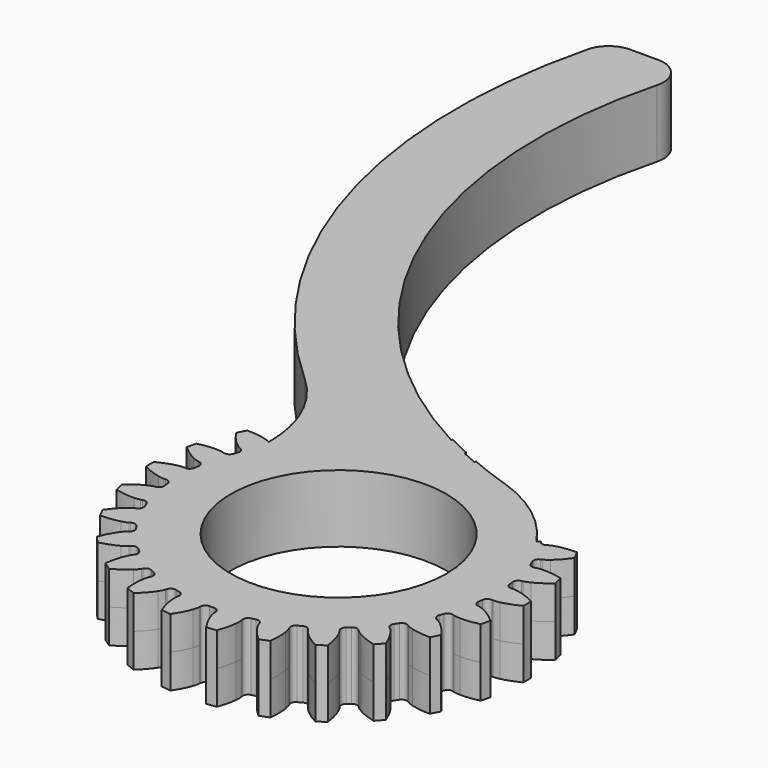
from build123d import *

# Parameters (mm, degrees)
SKETCH005_R     = 8
PAD002_DEPTH    = 2.5
FILLET002_R     = 10
FILLET003_R     = 2
CHAMFER001_SIZE = 0.8
PAD003_DEPTH    = 2.5
SKETCH006_R     = 8
POCKET003_DEPTH = 5.001
POCKET004_DEPTH = 5


with BuildPart() as part:
    # Sketch005 → Pad002 (new body, symmetric)
    with BuildSketch(Plane.XY):
        with BuildLine():
            ThreePointArc((-35, 12), (-33.110427, -16.51362), (-11.470762, -35.177004))
            ThreePointArc((-21.943947, -36.979226), (-13.06944, -57.218988), (-11.470762, -35.177004))
            ThreePointArc((-41.291646, 12), (-39.992827, -15.797905), (-21.943947, -36.979226))
            Line((-41.291646, 12), (-35, 12))
        make_face()
        with Locations((-15, -46)):
            Circle(SKETCH005_R, mode=Mode.SUBTRACT)
    extrude(amount=PAD002_DEPTH, both=True)

    # Fillet002
    fillet002_edges = [part.edges().sort_by_distance(p)[0] for p in [
        (-21.943947, -36.979226, 0),
    ]]
    fillet(fillet002_edges, radius=FILLET002_R)

    # Fillet003
    fillet003_edges = [part.edges().sort_by_distance(p)[0] for p in [
        (-41.291646, 12, 0),
        (-35, 12, 0),
    ]]
    fillet(fillet003_edges, radius=FILLET003_R)

    # Chamfer001
    chamfer001_edges = [part.edges().sort_by_distance(p)[0] for p in [
        (-23, -46, 2.5),
        (-23, -46, -2.5),
    ]]
    chamfer(chamfer001_edges, length=CHAMFER001_SIZE)

    # InvoluteGear → Pad003 (join, symmetric)
    with BuildSketch(Plane(origin=(-15, -46, 0), x_dir=(1, 0, 0), z_dir=(0, 0, 1))):
        with BuildLine():
            Line((12.095609, -0.912763), (12.201012, -0.919963))
            add(Edge.make_bspline(
                [(12.201012, -0.919963), (12.252999, -0.920942), (12.409636, -0.91804), (12.670504, -0.863228)],
                knots=[0, 0, 0, 0, 1, 1, 1, 1], degree=3))
            add(Edge.make_bspline(
                [(12.670504, -0.863228), (12.983071, -0.796742), (13.434622, -0.656345), (13.996362, -0.361494)],
                knots=[0, 0, 0, 0, 1, 1, 1, 1], degree=3))
            ThreePointArc((13.996362, -0.361494), (14.000515, 0.000191), (13.995323, 0.361861))
            add(Edge.make_bspline(
                [(13.995323, 0.361861), (13.434622, 0.656345), (12.983071, 0.796742), (12.670504, 0.863228)],
                knots=[0, 0, 0, 0, 1, 1, 1, 1], degree=3))
            add(Edge.make_bspline(
                [(12.670504, 0.863228), (12.409636, 0.91804), (12.252999, 0.920942), (12.201012, 0.919963)],
                knots=[0, 0, 0, 0, 1, 1, 1, 1], degree=3))
            Line((12.201012, 0.919963), (12.095609, 0.912763))
            ThreePointArc((12.095609, 0.912763), (11.820254, 0.99725), (11.683256, 1.250608))
            ThreePointArc((11.683256, 1.250608), (11.664329, 1.416306), (11.643052, 1.581719))
            ThreePointArc((11.643052, 1.581719), (11.715437, 1.8605), (11.962571, 2.008429))
            Line((11.962571, 2.008429), (12.066634, 2.026663))
            add(Edge.make_bspline(
                [(12.066634, 2.026663), (12.117345, 2.038154), (12.268736, 2.078457), (12.508906, 2.194106)],
                knots=[0, 0, 0, 0, 1, 1, 1, 1], degree=3))
            add(Edge.make_bspline(
                [(12.508906, 2.194106), (12.79648, 2.333462), (13.20131, 2.577843), (13.676164, 2.998559)],
                knots=[0, 0, 0, 0, 1, 1, 1, 1], degree=3))
            ThreePointArc((13.676164, 2.998559), (13.59364, 3.350727), (13.502045, 3.700646))
            add(Edge.make_bspline(
                [(13.502045, 3.700646), (12.887162, 3.852388), (12.415134, 3.880643), (12.095739, 3.870394)],
                knots=[0, 0, 0, 0, 1, 1, 1, 1], degree=3))
            add(Edge.make_bspline(
                [(12.095739, 3.870394), (11.829334, 3.861183), (11.676553, 3.826516), (11.626311, 3.813123)],
                knots=[0, 0, 0, 0, 1, 1, 1, 1], degree=3))
            Line((11.626311, 3.813123), (11.525694, 3.780909))
            ThreePointArc((11.525694, 3.780909), (11.238122, 3.797044), (11.044472, 4.010253))
            ThreePointArc((11.044472, 4.010253), (10.986441, 4.166607), (10.926196, 4.322122))
            ThreePointArc((10.926196, 4.322122), (10.929761, 4.610125), (11.134312, 4.812898))
            Line((11.134312, 4.812898), (11.230987, 4.855506))
            add(Edge.make_bspline(
                [(11.230987, 4.855506), (11.277475, 4.878799), (11.414822, 4.954162), (11.620336, 5.123927)],
                knots=[0, 0, 0, 0, 1, 1, 1, 1], degree=3))
            add(Edge.make_bspline(
                [(11.620336, 5.123927), (11.866203, 5.328054), (12.200786, 5.662215), (12.561157, 6.184347)],
                knots=[0, 0, 0, 0, 1, 1, 1, 1], degree=3))
            ThreePointArc((12.561157, 6.184347), (12.396752, 6.506532), (12.224077, 6.824363))
            add(Edge.make_bspline(
                [(12.224077, 6.824363), (11.590748, 6.824545), (11.125674, 6.739014), (10.818013, 6.652627)],
                knots=[0, 0, 0, 0, 1, 1, 1, 1], degree=3))
            add(Edge.make_bspline(
                [(10.818013, 6.652627), (10.561553, 6.579929), (10.421509, 6.509706), (10.375931, 6.484679)],
                knots=[0, 0, 0, 0, 1, 1, 1, 1], degree=3))
            Line((10.375931, 6.484679), (10.285948, 6.429322))
            ThreePointArc((10.285948, 6.429322), (10.00287, 6.376167), (9.763823, 6.536838))
            ThreePointArc((9.763823, 6.536838), (9.67006, 6.674761), (9.574349, 6.811339))
            ThreePointArc((9.574349, 6.811339), (9.508887, 7.091826), (9.658968, 7.337659))
            Line((9.658968, 7.337659), (9.742636, 7.402165))
            add(Edge.make_bspline(
                [(9.742636, 7.402165), (9.782199, 7.435906), (9.897519, 7.541949), (10.056434, 7.755963)],
                knots=[0, 0, 0, 0, 1, 1, 1, 1], degree=3))
            add(Edge.make_bspline(
                [(10.056434, 7.755963), (10.246306, 8.012998), (10.491196, 8.417521), (10.716142, 9.010723)],
                knots=[0, 0, 0, 0, 1, 1, 1, 1], degree=3))
            ThreePointArc((10.716142, 9.010723), (10.479409, 9.284201), (10.235691, 9.551473))
            add(Edge.make_bspline(
                [(10.235691, 9.551473), (9.620722, 9.400084), (9.18963, 9.205739), (8.911583, 9.048234)],
                knots=[0, 0, 0, 0, 1, 1, 1, 1], degree=3))
            add(Edge.make_bspline(
                [(8.911583, 9.048234), (8.679973, 8.916274), (8.560804, 8.814576), (8.52254, 8.779369)],
                knots=[0, 0, 0, 0, 1, 1, 1, 1], degree=3))
            Line((8.52254, 8.779369), (8.448419, 8.704086))
            ThreePointArc((8.448419, 8.704086), (8.186288, 8.584731), (7.915737, 8.683525))
            ThreePointArc((7.915737, 8.683525), (7.791691, 8.795001), (7.666076, 8.904705))
            ThreePointArc((7.666076, 8.904705), (7.535391, 9.161376), (7.622279, 9.435982))
            Line((7.622279, 9.435982), (7.688079, 9.518637))
            add(Edge.make_bspline(
                [(7.688079, 9.518637), (7.718417, 9.560866), (7.805009, 9.691425), (7.908089, 9.937251)],
                knots=[0, 0, 0, 0, 1, 1, 1, 1], degree=3))
            add(Edge.make_bspline(
                [(7.908089, 9.937251), (8.030931, 10.232257), (8.171896, 10.68363), (8.248343, 11.313428)],
                knots=[0, 0, 0, 0, 1, 1, 1, 1], degree=3))
            ThreePointArc((8.248343, 11.313428), (7.953042, 11.522306), (7.652443, 11.723485))
            add(Edge.make_bspline(
                [(7.652443, 11.723485), (7.091574, 11.429324), (6.719519, 11.137459), (6.487244, 10.91799)],
                knots=[0, 0, 0, 0, 1, 1, 1, 1], degree=3))
            add(Edge.make_bspline(
                [(6.487244, 10.91799), (6.293945, 10.734436), (6.202576, 10.607175), (6.17385, 10.563834)],
                knots=[0, 0, 0, 0, 1, 1, 1, 1], degree=3))
            Line((6.17385, 10.563834), (6.1199, 10.473))
            ThreePointArc((6.1199, 10.473), (5.893949, 10.294381), (5.607616, 10.325558))
            ThreePointArc((5.607616, 10.325558), (5.460497, 10.404108), (5.312278, 10.480563))
            ThreePointArc((5.312278, 10.480563), (5.123965, 10.6985), (5.142611, 10.985921))
            Line((5.142611, 10.985921), (5.186718, 11.081921))
            add(Edge.make_bspline(
                [(5.186718, 11.081921), (5.206069, 11.130183), (5.2589, 11.27767), (5.300155, 11.541023)],
                knots=[0, 0, 0, 0, 1, 1, 1, 1], degree=3))
            add(Edge.make_bspline(
                [(5.300155, 11.541023), (5.348828, 11.856854), (5.377676, 12.328846), (5.301181, 12.958638)],
                knots=[0, 0, 0, 0, 1, 1, 1, 1], degree=3))
            ThreePointArc((5.301181, 12.958638), (4.964473, 13.090776), (4.624464, 13.214172))
            add(Edge.make_bspline(
                [(4.624464, 13.214172), (4.150289, 12.794333), (3.858893, 12.421911), (3.685891, 12.153232)],
                knots=[0, 0, 0, 0, 1, 1, 1, 1], degree=3))
            add(Edge.make_bspline(
                [(3.685891, 12.153232), (3.542136, 11.928753), (3.483878, 11.783324), (3.466358, 11.734367)],
                knots=[0, 0, 0, 0, 1, 1, 1, 1], degree=3))
            Line((3.466358, 11.734367), (3.435713, 11.633261))
            ThreePointArc((3.435713, 11.633261), (3.259075, 11.40576), (2.973601, 11.367506))
            ThreePointArc((2.973601, 11.367506), (2.811959, 11.408566), (2.64975, 11.447328))
            ThreePointArc((2.64975, 11.447328), (2.414753, 11.613866), (2.364073, 11.897397))
            Line((2.364073, 11.897397), (2.383924, 12.001163))
            add(Edge.make_bspline(
                [(2.383924, 12.001163), (2.391163, 12.052654), (2.407162, 12.208499), (2.384194, 12.474071)],
                knots=[0, 0, 0, 0, 1, 1, 1, 1], degree=3))
            add(Edge.make_bspline(
                [(2.384194, 12.474071), (2.35587, 12.792373), (2.270924, 13.257555), (2.045933, 13.850739)],
                knots=[0, 0, 0, 0, 1, 1, 1, 1], degree=3))
            ThreePointArc((2.045933, 13.850739), (1.687386, 13.898458), (1.327727, 13.936899))
            add(Edge.make_bspline(
                [(1.327727, 13.936899), (0.967805, 13.415782), (0.774003, 12.984447), (0.670327, 12.682173)],
                knots=[0, 0, 0, 0, 1, 1, 1, 1], degree=3))
            add(Edge.make_bspline(
                [(0.670327, 12.682173), (0.58447, 12.429814), (0.562709, 12.274668), (0.557414, 12.222942)],
                knots=[0, 0, 0, 0, 1, 1, 1, 1], degree=3))
            Line((0.557414, 12.222942), (0.551856, 12.11744))
            ThreePointArc((0.551856, 12.11744), (0.434795, 11.854277), (0.166772, 11.748816))
            ThreePointArc((0.166772, 11.748816), (0, 11.75), (-0.166772, 11.748816))
            ThreePointArc((-0.166772, 11.748816), (-0.434795, 11.854277), (-0.551856, 12.11744))
            Line((-0.551856, 12.11744), (-0.557414, 12.222942))
            add(Edge.make_bspline(
                [(-0.557414, 12.222942), (-0.562709, 12.274668), (-0.58447, 12.429814), (-0.670327, 12.682173)],
                knots=[0, 0, 0, 0, 1, 1, 1, 1], degree=3))
            add(Edge.make_bspline(
                [(-0.670327, 12.682173), (-0.774003, 12.984447), (-0.967805, 13.415782), (-1.328217, 13.937886)],
                knots=[0, 0, 0, 0, 1, 1, 1, 1], degree=3))
            ThreePointArc((-1.328217, 13.937886), (-1.687765, 13.898412), (-2.046173, 13.849663))
            add(Edge.make_bspline(
                [(-2.046173, 13.849663), (-2.270924, 13.257555), (-2.35587, 12.792373), (-2.384194, 12.474071)],
                knots=[0, 0, 0, 0, 1, 1, 1, 1], degree=3))
            add(Edge.make_bspline(
                [(-2.384194, 12.474071), (-2.407162, 12.208499), (-2.391163, 12.052654), (-2.383924, 12.001163)],
                knots=[0, 0, 0, 0, 1, 1, 1, 1], degree=3))
            Line((-2.383924, 12.001163), (-2.364073, 11.897397))
            ThreePointArc((-2.364073, 11.897397), (-2.414753, 11.613866), (-2.64975, 11.447328))
            ThreePointArc((-2.64975, 11.447328), (-2.811959, 11.408566), (-2.973601, 11.367506))
            ThreePointArc((-2.973601, 11.367506), (-3.259075, 11.40576), (-3.435713, 11.633261))
            Line((-3.435713, 11.633261), (-3.466358, 11.734367))
            add(Edge.make_bspline(
                [(-3.466358, 11.734367), (-3.483878, 11.783324), (-3.542136, 11.928753), (-3.685891, 12.153232)],
                knots=[0, 0, 0, 0, 1, 1, 1, 1], degree=3))
            add(Edge.make_bspline(
                [(-3.685891, 12.153232), (-3.858893, 12.421911), (-4.150289, 12.794333), (-4.625176, 13.215013)],
                knots=[0, 0, 0, 0, 1, 1, 1, 1], degree=3))
            ThreePointArc((-4.625176, 13.215013), (-4.964829, 13.090641), (-5.301156, 12.957536))
            add(Edge.make_bspline(
                [(-5.301156, 12.957536), (-5.377676, 12.328846), (-5.348828, 11.856854), (-5.300155, 11.541023)],
                knots=[0, 0, 0, 0, 1, 1, 1, 1], degree=3))
            add(Edge.make_bspline(
                [(-5.300155, 11.541023), (-5.2589, 11.27767), (-5.206069, 11.130183), (-5.186718, 11.081921)],
                knots=[0, 0, 0, 0, 1, 1, 1, 1], degree=3))
            Line((-5.186718, 11.081921), (-5.142611, 10.985921))
            ThreePointArc((-5.142611, 10.985921), (-5.123965, 10.6985), (-5.312278, 10.480563))
            ThreePointArc((-5.312278, 10.480563), (-5.460497, 10.404108), (-5.607616, 10.325558))
            ThreePointArc((-5.607616, 10.325558), (-5.893949, 10.294381), (-6.1199, 10.473))
            Line((-6.1199, 10.473), (-6.17385, 10.563834))
            add(Edge.make_bspline(
                [(-6.17385, 10.563834), (-6.202576, 10.607175), (-6.293945, 10.734436), (-6.487244, 10.91799)],
                knots=[0, 0, 0, 0, 1, 1, 1, 1], degree=3))
            add(Edge.make_bspline(
                [(-6.487244, 10.91799), (-6.719519, 11.137459), (-7.091574, 11.429324), (-7.653336, 11.724131)],
                knots=[0, 0, 0, 0, 1, 1, 1, 1], degree=3))
            ThreePointArc((-7.653336, 11.724131), (-7.953356, 11.522089), (-8.248055, 11.312364))
            add(Edge.make_bspline(
                [(-8.248055, 11.312364), (-8.171896, 10.68363), (-8.030931, 10.232257), (-7.908089, 9.937251)],
                knots=[0, 0, 0, 0, 1, 1, 1, 1], degree=3))
            add(Edge.make_bspline(
                [(-7.908089, 9.937251), (-7.805009, 9.691425), (-7.718417, 9.560866), (-7.688079, 9.518637)],
                knots=[0, 0, 0, 0, 1, 1, 1, 1], degree=3))
            Line((-7.688079, 9.518637), (-7.622279, 9.435982))
            ThreePointArc((-7.622279, 9.435982), (-7.535391, 9.161376), (-7.666076, 8.904705))
            ThreePointArc((-7.666076, 8.904705), (-7.791691, 8.795001), (-7.915737, 8.683525))
            ThreePointArc((-7.915737, 8.683525), (-8.186288, 8.584731), (-8.448419, 8.704086))
            Line((-8.448419, 8.704086), (-8.52254, 8.779369))
            add(Edge.make_bspline(
                [(-8.52254, 8.779369), (-8.560804, 8.814576), (-8.679973, 8.916274), (-8.911583, 9.048234)],
                knots=[0, 0, 0, 0, 1, 1, 1, 1], degree=3))
            add(Edge.make_bspline(
                [(-8.911583, 9.048234), (-9.18963, 9.205739), (-9.620722, 9.400084), (-10.236712, 9.551886)],
                knots=[0, 0, 0, 0, 1, 1, 1, 1], degree=3))
            ThreePointArc((-10.236712, 9.551886), (-10.479662, 9.283916), (-10.715608, 9.009759))
            add(Edge.make_bspline(
                [(-10.715608, 9.009759), (-10.491196, 8.417521), (-10.246306, 8.012998), (-10.056434, 7.755963)],
                knots=[0, 0, 0, 0, 1, 1, 1, 1], degree=3))
            add(Edge.make_bspline(
                [(-10.056434, 7.755963), (-9.897519, 7.541949), (-9.782199, 7.435906), (-9.742636, 7.402165)],
                knots=[0, 0, 0, 0, 1, 1, 1, 1], degree=3))
            Line((-9.742636, 7.402165), (-9.658968, 7.337659))
            ThreePointArc((-9.658968, 7.337659), (-9.508887, 7.091826), (-9.574349, 6.811339))
            ThreePointArc((-9.574349, 6.811339), (-9.67006, 6.674761), (-9.763823, 6.536838))
            ThreePointArc((-9.763823, 6.536838), (-10.00287, 6.376167), (-10.285948, 6.429322))
            Line((-10.285948, 6.429322), (-10.375931, 6.484679))
            add(Edge.make_bspline(
                [(-10.375931, 6.484679), (-10.421509, 6.509706), (-10.561553, 6.579929), (-10.818013, 6.652627)],
                knots=[0, 0, 0, 0, 1, 1, 1, 1], degree=3))
            add(Edge.make_bspline(
                [(-10.818013, 6.652627), (-11.125674, 6.739014), (-11.590748, 6.824545), (-12.225168, 6.82452)],
                knots=[0, 0, 0, 0, 1, 1, 1, 1], degree=3))
            ThreePointArc((-12.225168, 6.82452), (-12.396929, 6.506195), (-12.560408, 6.183539))
            add(Edge.make_bspline(
                [(-12.560408, 6.183539), (-12.200786, 5.662215), (-11.866203, 5.328054), (-11.620336, 5.123927)],
                knots=[0, 0, 0, 0, 1, 1, 1, 1], degree=3))
            add(Edge.make_bspline(
                [(-11.620336, 5.123927), (-11.414822, 4.954162), (-11.277475, 4.878799), (-11.230987, 4.855506)],
                knots=[0, 0, 0, 0, 1, 1, 1, 1], degree=3))
            Line((-11.230987, 4.855506), (-11.134312, 4.812898))
            ThreePointArc((-11.134312, 4.812898), (-10.929761, 4.610125), (-10.926196, 4.322122))
            ThreePointArc((-10.926196, 4.322122), (-10.986441, 4.166607), (-11.044472, 4.010253))
            ThreePointArc((-11.044472, 4.010253), (-11.238122, 3.797044), (-11.525694, 3.780909))
            Line((-11.525694, 3.780909), (-11.626311, 3.813123))
            add(Edge.make_bspline(
                [(-11.626311, 3.813123), (-11.676553, 3.826516), (-11.829334, 3.861183), (-12.095739, 3.870394)],
                knots=[0, 0, 0, 0, 1, 1, 1, 1], degree=3))
            add(Edge.make_bspline(
                [(-12.095739, 3.870394), (-12.415134, 3.880643), (-12.887162, 3.852388), (-13.503142, 3.700538)],
                knots=[0, 0, 0, 0, 1, 1, 1, 1], degree=3))
            ThreePointArc((-13.503142, 3.700538), (-13.593731, 3.350357), (-13.675243, 2.997954))
            add(Edge.make_bspline(
                [(-13.675243, 2.997954), (-13.20131, 2.577843), (-12.79648, 2.333462), (-12.508906, 2.194106)],
                knots=[0, 0, 0, 0, 1, 1, 1, 1], degree=3))
            add(Edge.make_bspline(
                [(-12.508906, 2.194106), (-12.268736, 2.078457), (-12.117345, 2.038154), (-12.066634, 2.026663)],
                knots=[0, 0, 0, 0, 1, 1, 1, 1], degree=3))
            Line((-12.066634, 2.026663), (-11.962571, 2.008429))
            ThreePointArc((-11.962571, 2.008429), (-11.715437, 1.8605), (-11.643052, 1.581719))
            ThreePointArc((-11.643052, 1.581719), (-11.664329, 1.416306), (-11.683256, 1.250608))
            ThreePointArc((-11.683256, 1.250608), (-11.820254, 0.99725), (-12.095609, 0.912763))
            Line((-12.095609, 0.912763), (-12.201012, 0.919963))
            add(Edge.make_bspline(
                [(-12.201012, 0.919963), (-12.252999, 0.920942), (-12.409636, 0.91804), (-12.670504, 0.863228)],
                knots=[0, 0, 0, 0, 1, 1, 1, 1], degree=3))
            add(Edge.make_bspline(
                [(-12.670504, 0.863228), (-12.983071, 0.796742), (-13.434622, 0.656345), (-13.996362, 0.361494)],
                knots=[0, 0, 0, 0, 1, 1, 1, 1], degree=3))
            ThreePointArc((-13.996362, 0.361494), (-14.000515, -0.000191), (-13.995323, -0.361861))
            add(Edge.make_bspline(
                [(-13.995323, -0.361861), (-13.434622, -0.656345), (-12.983071, -0.796742), (-12.670504, -0.863228)],
                knots=[0, 0, 0, 0, 1, 1, 1, 1], degree=3))
            add(Edge.make_bspline(
                [(-12.670504, -0.863228), (-12.409636, -0.91804), (-12.252999, -0.920942), (-12.201012, -0.919963)],
                knots=[0, 0, 0, 0, 1, 1, 1, 1], degree=3))
            Line((-12.201012, -0.919963), (-12.095609, -0.912763))
            ThreePointArc((-12.095609, -0.912763), (-11.820254, -0.99725), (-11.683256, -1.250608))
            ThreePointArc((-11.683256, -1.250608), (-11.664329, -1.416306), (-11.643052, -1.581719))
            ThreePointArc((-11.643052, -1.581719), (-11.715437, -1.8605), (-11.962571, -2.008429))
            Line((-11.962571, -2.008429), (-12.066634, -2.026663))
            add(Edge.make_bspline(
                [(-12.066634, -2.026663), (-12.117345, -2.038154), (-12.268736, -2.078457), (-12.508906, -2.194106)],
                knots=[0, 0, 0, 0, 1, 1, 1, 1], degree=3))
            add(Edge.make_bspline(
                [(-12.508906, -2.194106), (-12.79648, -2.333462), (-13.20131, -2.577843), (-13.676164, -2.998559)],
                knots=[0, 0, 0, 0, 1, 1, 1, 1], degree=3))
            ThreePointArc((-13.676164, -2.998559), (-13.59364, -3.350727), (-13.502045, -3.700646))
            add(Edge.make_bspline(
                [(-13.502045, -3.700646), (-12.887162, -3.852388), (-12.415134, -3.880643), (-12.095739, -3.870394)],
                knots=[0, 0, 0, 0, 1, 1, 1, 1], degree=3))
            add(Edge.make_bspline(
                [(-12.095739, -3.870394), (-11.829334, -3.861183), (-11.676553, -3.826516), (-11.626311, -3.813123)],
                knots=[0, 0, 0, 0, 1, 1, 1, 1], degree=3))
            Line((-11.626311, -3.813123), (-11.525694, -3.780909))
            ThreePointArc((-11.525694, -3.780909), (-11.238122, -3.797044), (-11.044472, -4.010253))
            ThreePointArc((-11.044472, -4.010253), (-10.986441, -4.166607), (-10.926196, -4.322122))
            ThreePointArc((-10.926196, -4.322122), (-10.929761, -4.610125), (-11.134312, -4.812898))
            Line((-11.134312, -4.812898), (-11.230987, -4.855506))
            add(Edge.make_bspline(
                [(-11.230987, -4.855506), (-11.277475, -4.878799), (-11.414822, -4.954162), (-11.620336, -5.123927)],
                knots=[0, 0, 0, 0, 1, 1, 1, 1], degree=3))
            add(Edge.make_bspline(
                [(-11.620336, -5.123927), (-11.866203, -5.328054), (-12.200786, -5.662215), (-12.561157, -6.184347)],
                knots=[0, 0, 0, 0, 1, 1, 1, 1], degree=3))
            ThreePointArc((-12.561157, -6.184347), (-12.396752, -6.506532), (-12.224077, -6.824363))
            add(Edge.make_bspline(
                [(-12.224077, -6.824363), (-11.590748, -6.824545), (-11.125674, -6.739014), (-10.818013, -6.652627)],
                knots=[0, 0, 0, 0, 1, 1, 1, 1], degree=3))
            add(Edge.make_bspline(
                [(-10.818013, -6.652627), (-10.561553, -6.579929), (-10.421509, -6.509706), (-10.375931, -6.484679)],
                knots=[0, 0, 0, 0, 1, 1, 1, 1], degree=3))
            Line((-10.375931, -6.484679), (-10.285948, -6.429322))
            ThreePointArc((-10.285948, -6.429322), (-10.00287, -6.376167), (-9.763823, -6.536838))
            ThreePointArc((-9.763823, -6.536838), (-9.67006, -6.674761), (-9.574349, -6.811339))
            ThreePointArc((-9.574349, -6.811339), (-9.508887, -7.091826), (-9.658968, -7.337659))
            Line((-9.658968, -7.337659), (-9.742636, -7.402165))
            add(Edge.make_bspline(
                [(-9.742636, -7.402165), (-9.782199, -7.435906), (-9.897519, -7.541949), (-10.056434, -7.755963)],
                knots=[0, 0, 0, 0, 1, 1, 1, 1], degree=3))
            add(Edge.make_bspline(
                [(-10.056434, -7.755963), (-10.246306, -8.012998), (-10.491196, -8.417521), (-10.716142, -9.010723)],
                knots=[0, 0, 0, 0, 1, 1, 1, 1], degree=3))
            ThreePointArc((-10.716142, -9.010723), (-10.479409, -9.284201), (-10.235691, -9.551473))
            add(Edge.make_bspline(
                [(-10.235691, -9.551473), (-9.620722, -9.400084), (-9.18963, -9.205739), (-8.911583, -9.048234)],
                knots=[0, 0, 0, 0, 1, 1, 1, 1], degree=3))
            add(Edge.make_bspline(
                [(-8.911583, -9.048234), (-8.679973, -8.916274), (-8.560804, -8.814576), (-8.52254, -8.779369)],
                knots=[0, 0, 0, 0, 1, 1, 1, 1], degree=3))
            Line((-8.52254, -8.779369), (-8.448419, -8.704086))
            ThreePointArc((-8.448419, -8.704086), (-8.186288, -8.584731), (-7.915737, -8.683525))
            ThreePointArc((-7.915737, -8.683525), (-7.791691, -8.795001), (-7.666076, -8.904705))
            ThreePointArc((-7.666076, -8.904705), (-7.535391, -9.161376), (-7.622279, -9.435982))
            Line((-7.622279, -9.435982), (-7.688079, -9.518637))
            add(Edge.make_bspline(
                [(-7.688079, -9.518637), (-7.718417, -9.560866), (-7.805009, -9.691425), (-7.908089, -9.937251)],
                knots=[0, 0, 0, 0, 1, 1, 1, 1], degree=3))
            add(Edge.make_bspline(
                [(-7.908089, -9.937251), (-8.030931, -10.232257), (-8.171896, -10.68363), (-8.248343, -11.313428)],
                knots=[0, 0, 0, 0, 1, 1, 1, 1], degree=3))
            ThreePointArc((-8.248343, -11.313428), (-7.953042, -11.522306), (-7.652443, -11.723485))
            add(Edge.make_bspline(
                [(-7.652443, -11.723485), (-7.091574, -11.429324), (-6.719519, -11.137459), (-6.487244, -10.91799)],
                knots=[0, 0, 0, 0, 1, 1, 1, 1], degree=3))
            add(Edge.make_bspline(
                [(-6.487244, -10.91799), (-6.293945, -10.734436), (-6.202576, -10.607175), (-6.17385, -10.563834)],
                knots=[0, 0, 0, 0, 1, 1, 1, 1], degree=3))
            Line((-6.17385, -10.563834), (-6.1199, -10.473))
            ThreePointArc((-6.1199, -10.473), (-5.893949, -10.294381), (-5.607616, -10.325558))
            ThreePointArc((-5.607616, -10.325558), (-5.460497, -10.404108), (-5.312278, -10.480563))
            ThreePointArc((-5.312278, -10.480563), (-5.123965, -10.6985), (-5.142611, -10.985921))
            Line((-5.142611, -10.985921), (-5.186718, -11.081921))
            add(Edge.make_bspline(
                [(-5.186718, -11.081921), (-5.206069, -11.130183), (-5.2589, -11.27767), (-5.300155, -11.541023)],
                knots=[0, 0, 0, 0, 1, 1, 1, 1], degree=3))
            add(Edge.make_bspline(
                [(-5.300155, -11.541023), (-5.348828, -11.856854), (-5.377676, -12.328846), (-5.301181, -12.958638)],
                knots=[0, 0, 0, 0, 1, 1, 1, 1], degree=3))
            ThreePointArc((-5.301181, -12.958638), (-4.964473, -13.090776), (-4.624464, -13.214172))
            add(Edge.make_bspline(
                [(-4.624464, -13.214172), (-4.150289, -12.794333), (-3.858893, -12.421911), (-3.685891, -12.153232)],
                knots=[0, 0, 0, 0, 1, 1, 1, 1], degree=3))
            add(Edge.make_bspline(
                [(-3.685891, -12.153232), (-3.542136, -11.928753), (-3.483878, -11.783324), (-3.466358, -11.734367)],
                knots=[0, 0, 0, 0, 1, 1, 1, 1], degree=3))
            Line((-3.466358, -11.734367), (-3.435713, -11.633261))
            ThreePointArc((-3.435713, -11.633261), (-3.259075, -11.40576), (-2.973601, -11.367506))
            ThreePointArc((-2.973601, -11.367506), (-2.811959, -11.408566), (-2.64975, -11.447328))
            ThreePointArc((-2.64975, -11.447328), (-2.414753, -11.613866), (-2.364073, -11.897397))
            Line((-2.364073, -11.897397), (-2.383924, -12.001163))
            add(Edge.make_bspline(
                [(-2.383924, -12.001163), (-2.391163, -12.052654), (-2.407162, -12.208499), (-2.384194, -12.474071)],
                knots=[0, 0, 0, 0, 1, 1, 1, 1], degree=3))
            add(Edge.make_bspline(
                [(-2.384194, -12.474071), (-2.35587, -12.792373), (-2.270924, -13.257555), (-2.045933, -13.850739)],
                knots=[0, 0, 0, 0, 1, 1, 1, 1], degree=3))
            ThreePointArc((-2.045933, -13.850739), (-1.687386, -13.898458), (-1.327727, -13.936899))
            add(Edge.make_bspline(
                [(-1.327727, -13.936899), (-0.967805, -13.415782), (-0.774003, -12.984447), (-0.670327, -12.682173)],
                knots=[0, 0, 0, 0, 1, 1, 1, 1], degree=3))
            add(Edge.make_bspline(
                [(-0.670327, -12.682173), (-0.58447, -12.429814), (-0.562709, -12.274668), (-0.557414, -12.222942)],
                knots=[0, 0, 0, 0, 1, 1, 1, 1], degree=3))
            Line((-0.557414, -12.222942), (-0.551856, -12.11744))
            ThreePointArc((-0.551856, -12.11744), (-0.434795, -11.854277), (-0.166772, -11.748816))
            ThreePointArc((-0.166772, -11.748816), (0, -11.75), (0.166772, -11.748816))
            ThreePointArc((0.166772, -11.748816), (0.434795, -11.854277), (0.551856, -12.11744))
            Line((0.551856, -12.11744), (0.557414, -12.222942))
            add(Edge.make_bspline(
                [(0.557414, -12.222942), (0.562709, -12.274668), (0.58447, -12.429814), (0.670327, -12.682173)],
                knots=[0, 0, 0, 0, 1, 1, 1, 1], degree=3))
            add(Edge.make_bspline(
                [(0.670327, -12.682173), (0.774003, -12.984447), (0.967805, -13.415782), (1.328217, -13.937886)],
                knots=[0, 0, 0, 0, 1, 1, 1, 1], degree=3))
            ThreePointArc((1.328217, -13.937886), (1.687765, -13.898412), (2.046173, -13.849663))
            add(Edge.make_bspline(
                [(2.046173, -13.849663), (2.270924, -13.257555), (2.35587, -12.792373), (2.384194, -12.474071)],
                knots=[0, 0, 0, 0, 1, 1, 1, 1], degree=3))
            add(Edge.make_bspline(
                [(2.384194, -12.474071), (2.407162, -12.208499), (2.391163, -12.052654), (2.383924, -12.001163)],
                knots=[0, 0, 0, 0, 1, 1, 1, 1], degree=3))
            Line((2.383924, -12.001163), (2.364073, -11.897397))
            ThreePointArc((2.364073, -11.897397), (2.414753, -11.613866), (2.64975, -11.447328))
            ThreePointArc((2.64975, -11.447328), (2.811959, -11.408566), (2.973601, -11.367506))
            ThreePointArc((2.973601, -11.367506), (3.259075, -11.40576), (3.435713, -11.633261))
            Line((3.435713, -11.633261), (3.466358, -11.734367))
            add(Edge.make_bspline(
                [(3.466358, -11.734367), (3.483878, -11.783324), (3.542136, -11.928753), (3.685891, -12.153232)],
                knots=[0, 0, 0, 0, 1, 1, 1, 1], degree=3))
            add(Edge.make_bspline(
                [(3.685891, -12.153232), (3.858893, -12.421911), (4.150289, -12.794333), (4.625176, -13.215013)],
                knots=[0, 0, 0, 0, 1, 1, 1, 1], degree=3))
            ThreePointArc((4.625176, -13.215013), (4.964829, -13.090641), (5.301156, -12.957536))
            add(Edge.make_bspline(
                [(5.301156, -12.957536), (5.377676, -12.328846), (5.348828, -11.856854), (5.300155, -11.541023)],
                knots=[0, 0, 0, 0, 1, 1, 1, 1], degree=3))
            add(Edge.make_bspline(
                [(5.300155, -11.541023), (5.2589, -11.27767), (5.206069, -11.130183), (5.186718, -11.081921)],
                knots=[0, 0, 0, 0, 1, 1, 1, 1], degree=3))
            Line((5.186718, -11.081921), (5.142611, -10.985921))
            ThreePointArc((5.142611, -10.985921), (5.123965, -10.6985), (5.312278, -10.480563))
            ThreePointArc((5.312278, -10.480563), (5.460497, -10.404108), (5.607616, -10.325558))
            ThreePointArc((5.607616, -10.325558), (5.893949, -10.294381), (6.1199, -10.473))
            Line((6.1199, -10.473), (6.17385, -10.563834))
            add(Edge.make_bspline(
                [(6.17385, -10.563834), (6.202576, -10.607175), (6.293945, -10.734436), (6.487244, -10.91799)],
                knots=[0, 0, 0, 0, 1, 1, 1, 1], degree=3))
            add(Edge.make_bspline(
                [(6.487244, -10.91799), (6.719519, -11.137459), (7.091574, -11.429324), (7.653336, -11.724131)],
                knots=[0, 0, 0, 0, 1, 1, 1, 1], degree=3))
            ThreePointArc((7.653336, -11.724131), (7.953356, -11.522089), (8.248055, -11.312364))
            add(Edge.make_bspline(
                [(8.248055, -11.312364), (8.171896, -10.68363), (8.030931, -10.232257), (7.908089, -9.937251)],
                knots=[0, 0, 0, 0, 1, 1, 1, 1], degree=3))
            add(Edge.make_bspline(
                [(7.908089, -9.937251), (7.805009, -9.691425), (7.718417, -9.560866), (7.688079, -9.518637)],
                knots=[0, 0, 0, 0, 1, 1, 1, 1], degree=3))
            Line((7.688079, -9.518637), (7.622279, -9.435982))
            ThreePointArc((7.622279, -9.435982), (7.535391, -9.161376), (7.666076, -8.904705))
            ThreePointArc((7.666076, -8.904705), (7.791691, -8.795001), (7.915737, -8.683525))
            ThreePointArc((7.915737, -8.683525), (8.186288, -8.584731), (8.448419, -8.704086))
            Line((8.448419, -8.704086), (8.52254, -8.779369))
            add(Edge.make_bspline(
                [(8.52254, -8.779369), (8.560804, -8.814576), (8.679973, -8.916274), (8.911583, -9.048234)],
                knots=[0, 0, 0, 0, 1, 1, 1, 1], degree=3))
            add(Edge.make_bspline(
                [(8.911583, -9.048234), (9.18963, -9.205739), (9.620722, -9.400084), (10.236712, -9.551886)],
                knots=[0, 0, 0, 0, 1, 1, 1, 1], degree=3))
            ThreePointArc((10.236712, -9.551886), (10.479662, -9.283916), (10.715608, -9.009759))
            add(Edge.make_bspline(
                [(10.715608, -9.009759), (10.491196, -8.417521), (10.246306, -8.012998), (10.056434, -7.755963)],
                knots=[0, 0, 0, 0, 1, 1, 1, 1], degree=3))
            add(Edge.make_bspline(
                [(10.056434, -7.755963), (9.897519, -7.541949), (9.782199, -7.435906), (9.742636, -7.402165)],
                knots=[0, 0, 0, 0, 1, 1, 1, 1], degree=3))
            Line((9.742636, -7.402165), (9.658968, -7.337659))
            ThreePointArc((9.658968, -7.337659), (9.508887, -7.091826), (9.574349, -6.811339))
            ThreePointArc((9.574349, -6.811339), (9.67006, -6.674761), (9.763823, -6.536838))
            ThreePointArc((9.763823, -6.536838), (10.00287, -6.376167), (10.285948, -6.429322))
            Line((10.285948, -6.429322), (10.375931, -6.484679))
            add(Edge.make_bspline(
                [(10.375931, -6.484679), (10.421509, -6.509706), (10.561553, -6.579929), (10.818013, -6.652627)],
                knots=[0, 0, 0, 0, 1, 1, 1, 1], degree=3))
            add(Edge.make_bspline(
                [(10.818013, -6.652627), (11.125674, -6.739014), (11.590748, -6.824545), (12.225168, -6.82452)],
                knots=[0, 0, 0, 0, 1, 1, 1, 1], degree=3))
            ThreePointArc((12.225168, -6.82452), (12.396929, -6.506195), (12.560408, -6.183539))
            add(Edge.make_bspline(
                [(12.560408, -6.183539), (12.200786, -5.662215), (11.866203, -5.328054), (11.620336, -5.123927)],
                knots=[0, 0, 0, 0, 1, 1, 1, 1], degree=3))
            add(Edge.make_bspline(
                [(11.620336, -5.123927), (11.414822, -4.954162), (11.277475, -4.878799), (11.230987, -4.855506)],
                knots=[0, 0, 0, 0, 1, 1, 1, 1], degree=3))
            Line((11.230987, -4.855506), (11.134312, -4.812898))
            ThreePointArc((11.134312, -4.812898), (10.929761, -4.610125), (10.926196, -4.322122))
            ThreePointArc((10.926196, -4.322122), (10.986441, -4.166607), (11.044472, -4.010253))
            ThreePointArc((11.044472, -4.010253), (11.238122, -3.797044), (11.525694, -3.780909))
            Line((11.525694, -3.780909), (11.626311, -3.813123))
            add(Edge.make_bspline(
                [(11.626311, -3.813123), (11.676553, -3.826516), (11.829334, -3.861183), (12.095739, -3.870394)],
                knots=[0, 0, 0, 0, 1, 1, 1, 1], degree=3))
            add(Edge.make_bspline(
                [(12.095739, -3.870394), (12.415134, -3.880643), (12.887162, -3.852388), (13.503142, -3.700538)],
                knots=[0, 0, 0, 0, 1, 1, 1, 1], degree=3))
            ThreePointArc((13.503142, -3.700538), (13.593731, -3.350357), (13.675243, -2.997954))
            add(Edge.make_bspline(
                [(13.675243, -2.997954), (13.20131, -2.577843), (12.79648, -2.333462), (12.508906, -2.194106)],
                knots=[0, 0, 0, 0, 1, 1, 1, 1], degree=3))
            add(Edge.make_bspline(
                [(12.508906, -2.194106), (12.268736, -2.078457), (12.117345, -2.038154), (12.066634, -2.026663)],
                knots=[0, 0, 0, 0, 1, 1, 1, 1], degree=3))
            Line((12.066634, -2.026663), (11.962571, -2.008429))
            ThreePointArc((11.962571, -2.008429), (11.715437, -1.8605), (11.643052, -1.581719))
            ThreePointArc((11.643052, -1.581719), (11.664329, -1.416306), (11.683256, -1.250608))
            ThreePointArc((11.683256, -1.250608), (11.820254, -0.99725), (12.095609, -0.912763))
        make_face()
    extrude(amount=PAD003_DEPTH, both=True)

    # Sketch006 (on Face244 of Pad003) → Pocket003 (cut, through all)
    with BuildSketch(Plane.XY.offset(2.5)):
        with Locations((-15, -46)):
            Circle(SKETCH006_R)
    extrude(amount=-POCKET003_DEPTH, mode=Mode.SUBTRACT)

    # Sketch007 (on Face249 of Pocket003) → Pocket004 (cut)
    with BuildSketch(Plane.XY.offset(2.5)):
        with BuildLine():
            ThreePointArc((-5.466068, -39.569282), (-8.074281, -36.819345), (-11.434763, -35.066607))
            ThreePointArc((-19.079838, -31.565495), (-15.357398, -33.534625), (-11.434763, -35.066607))
            ThreePointArc((-2.564436, -37.612106), (-9.842974, -31.914366), (-19.079838, -31.565495))
            Line((-5.466068, -39.569282), (-2.564436, -37.612106))
        make_face()
    extrude(amount=-POCKET004_DEPTH, mode=Mode.SUBTRACT)


with BuildPart() as part_1:
    # Body001 placement: moved
    add(part.part.moved(Location((15, 46, 0))))


solid = part_1.part
